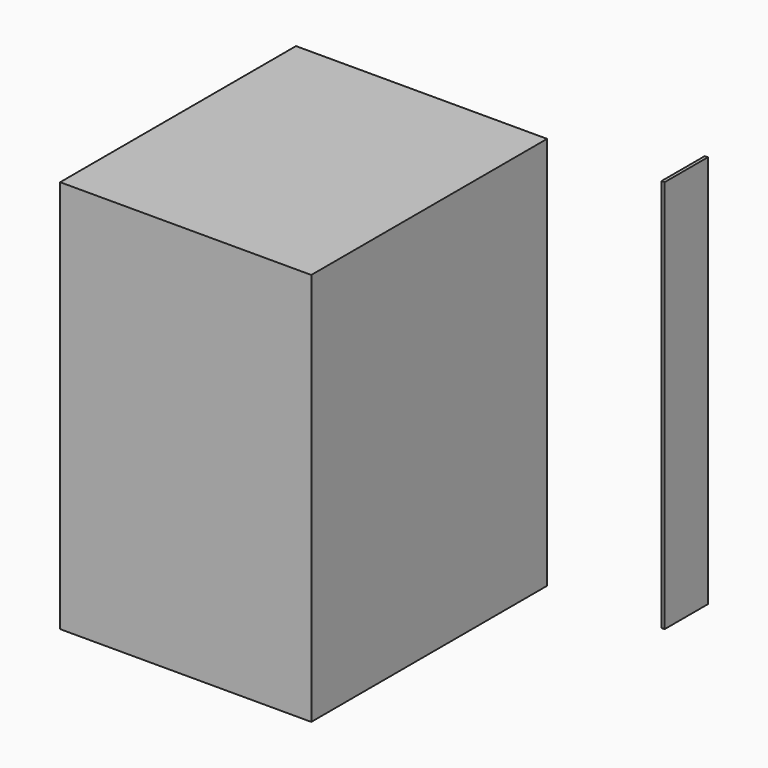
from build123d import *

# Parameters (mm, degrees)
F0_W     = 39.331988
F0_H     = 47.270558
F0_W_2   = 1.443371
F0_H_2   = 24.849623
F1_DEPTH = 181.04399


with BuildPart() as f1:
    # F0 (on Top) → F1 (new body)
    with BuildSketch(Plane.XY):
        Polygon((54.203421, -63.825101), (54.203421, 71.807928), (39.331988, 71.807928), (39.331988, 24.53737), (0, 24.53737), (0, 71.807928), (-61.343461, 71.807928), (-61.343461, -63.825101), align=None)
        with Locations((19.665994, 48.172649)):
            Rectangle(F0_W, F0_H)
        with Locations((107.53148, 84.281347)):
            Rectangle(F0_W_2, F0_H_2)
    extrude(amount=F1_DEPTH)


solid = f1.part
